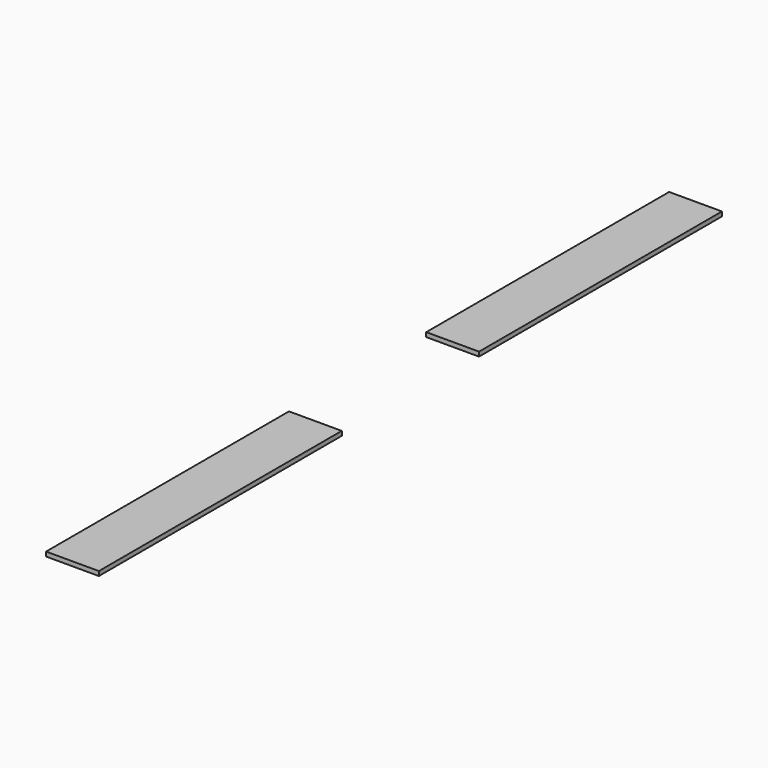
from build123d import *

# Parameters (mm, degrees)
BOX_W         = 76.2
BOX_H         = 438.15
BOX_DEPTH     = 6.35
ARRAY_Y_COUNT = 2
ARRAY_Y_PITCH = 685.8


with BuildPart() as part:
    # Box → Box (new body)
    with BuildSketch(Plane.XY):
        with Locations((38.1, 219.075)):
            Rectangle(BOX_W, BOX_H)
    extrude(amount=BOX_DEPTH)

    # Array Y: part ×2


with BuildPart() as part_1:
    add(part.part)
    with Locations(*[(0, i * ARRAY_Y_PITCH, 0) for i in range(1, ARRAY_Y_COUNT)]):
        add(part.part)


solid = part_1.part
